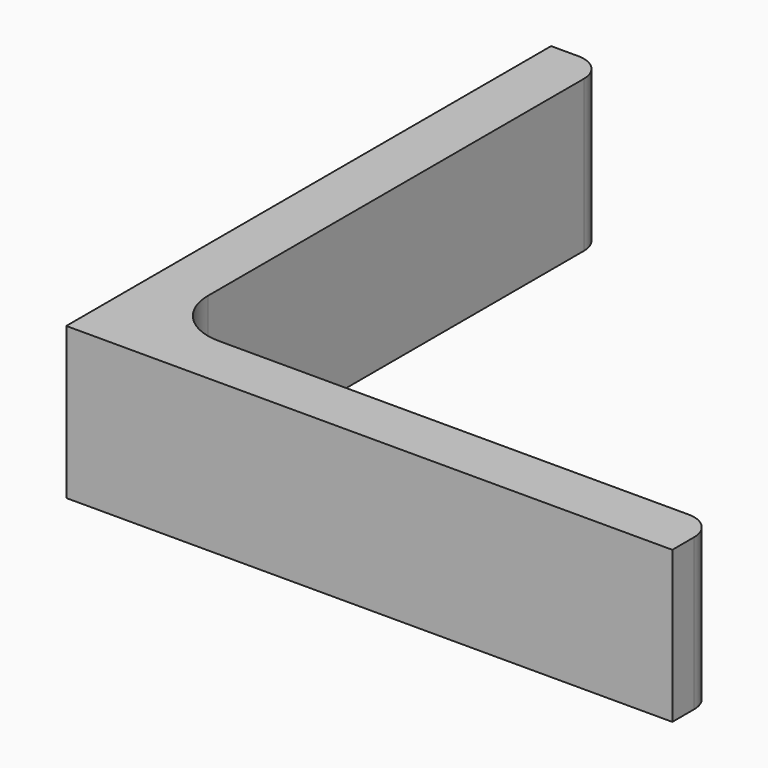
from build123d import *

# Parameters (mm, degrees)
EXTRUDE_DEPTH = 50


with BuildPart() as part:
    # Sketch → Extrude (new body)
    with BuildSketch(Plane.XY):
        with BuildLine():
            Line((0, 0), (200, 0))
            Line((200, 0), (200, 9))
            ThreePointArc((200, 9), (197.363961, 15.363961), (191, 18))
            Line((191, 18), (36, 18))
            ThreePointArc((18, 36), (23.272078, 23.272078), (36, 18))
            Line((18, 191), (18, 36))
            ThreePointArc((18, 191), (15.363961, 197.363961), (9, 200))
            Line((0, 200), (9, 200))
            Line((0, 0), (0, 200))
        make_face()
    extrude(amount=EXTRUDE_DEPTH)


solid = part.part
